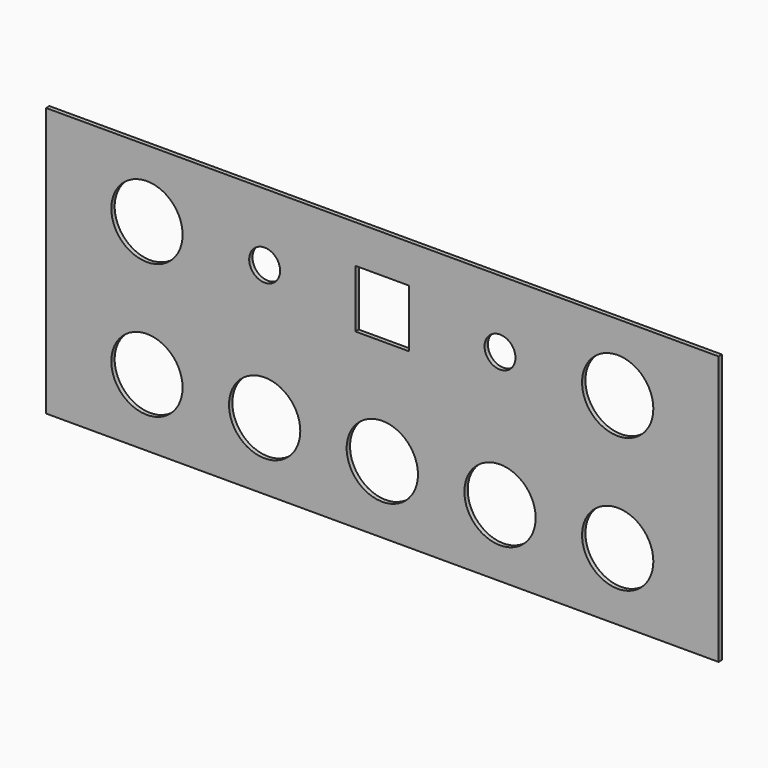
from build123d import *

# Parameters (mm, degrees)
F0_W     = 508
F0_H     = 203.2
F0_R     = 26.924
F0_R_2   = 11.684
F0_W_2   = 40.64
F0_H_2   = 43.688
F1_DEPTH = 3.175


with BuildPart() as f1:
    # F0 (on Front) → F1 (new body)
    with BuildSketch(Plane.XZ):
        with Locations((-128.282405, 63.176421)):
            Rectangle(F0_W, F0_H)
        with Locations((-306.082405, 12.376421)):
            Circle(F0_R, mode=Mode.SUBTRACT)
        with Locations((-217.182405, 12.376421)):
            Circle(F0_R, mode=Mode.SUBTRACT)
        with Locations((-128.282405, 12.376421)):
            Circle(F0_R, mode=Mode.SUBTRACT)
        with Locations((-39.382405, 12.376421)):
            Circle(F0_R, mode=Mode.SUBTRACT)
        with Locations((49.517595, 12.376421)):
            Circle(F0_R, mode=Mode.SUBTRACT)
        with Locations((-306.082405, 113.976421)):
            Circle(F0_R, mode=Mode.SUBTRACT)
        with Locations((-217.182405, 113.976421)):
            Circle(F0_R_2, mode=Mode.SUBTRACT)
        with Locations((-128.282405, 113.976421)):
            Rectangle(F0_W_2, F0_H_2, mode=Mode.SUBTRACT)
        with Locations((-39.382405, 113.976421)):
            Circle(F0_R_2, mode=Mode.SUBTRACT)
        with Locations((49.517595, 113.976421)):
            Circle(F0_R, mode=Mode.SUBTRACT)
    extrude(amount=F1_DEPTH)


solid = f1.part
